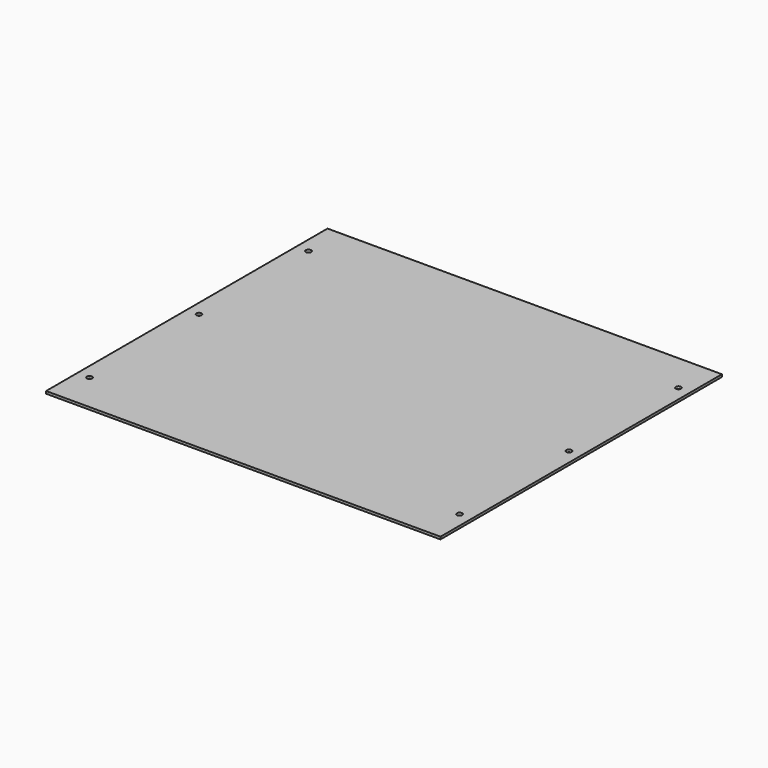
from build123d import *

# Parameters (mm, degrees)
F0_W     = 512.572
F0_H     = 457.2
F0_R     = 3.429
F1_DEPTH = 3.175


with BuildPart() as f1:
    # F0 (on Top) → F1 (new body)
    with BuildSketch(Plane.XY):
        with Locations((265.811, 228.6)):
            Rectangle(F0_W, F0_H)
        with Locations((25.4127, 50.8)):
            Circle(F0_R, mode=Mode.SUBTRACT)
        with Locations((506.2347, 50.8)):
            Circle(F0_R, mode=Mode.SUBTRACT)
        with Locations((25.4127, 228.6)):
            Circle(F0_R, mode=Mode.SUBTRACT)
        with Locations((25.4127, 406.4)):
            Circle(F0_R, mode=Mode.SUBTRACT)
        with Locations((506.2347, 228.6)):
            Circle(F0_R, mode=Mode.SUBTRACT)
        with Locations((506.2347, 406.4)):
            Circle(F0_R, mode=Mode.SUBTRACT)
    extrude(amount=F1_DEPTH)


solid = f1.part
